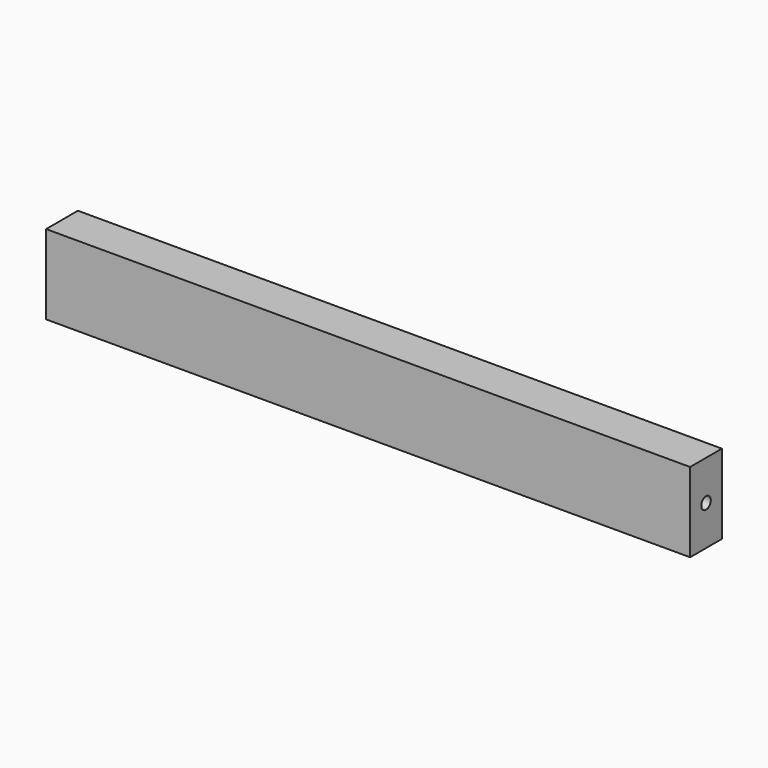
from build123d import *

# Parameters (mm, degrees)
F0_W     = 324
F0_H     = 40
F1_DEPTH = 20
F2_R     = 3
F4_DEPTH = 12
F3_R     = 3
F5_DEPTH = 12


with BuildPart() as f1:
    # F0 (on Front) → F1 (new body)
    with BuildSketch(Plane.XZ):
        with Locations((7.898747, 20)):
            Rectangle(F0_W, F0_H)
    extrude(amount=F1_DEPTH)

    # F2 (on face) → F4 (cut)
    with BuildSketch(Plane.YZ.offset(169.898747)):
        with Locations((-10, 20)):
            Circle(F2_R)
    extrude(amount=-F4_DEPTH, mode=Mode.SUBTRACT)

    # F3 (on face) → F5 (cut)
    with BuildSketch(Plane(origin=(-154.101253, 0, 0), x_dir=(0, -1, 0), z_dir=(-1, 0, 0))):
        with Locations((10, 20)):
            Circle(F3_R)
        with Locations((10, 20)):
            Circle(F3_R)
    extrude(amount=-F5_DEPTH, mode=Mode.SUBTRACT)


solid = f1.part
